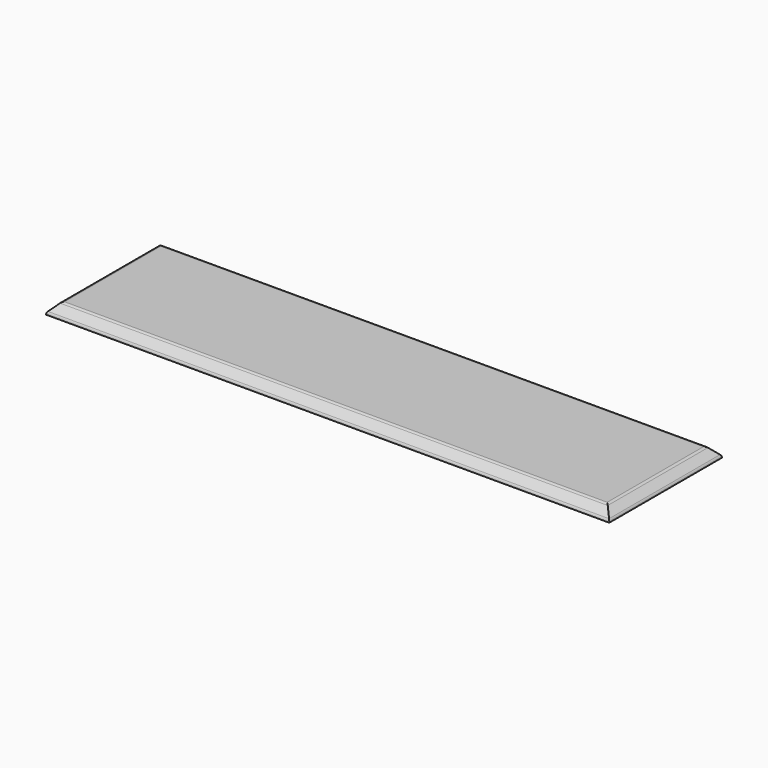
from build123d import *

# Parameters (mm, degrees)
F0_W     = 80
F0_H     = 20
F1_DEPTH = 1.5
F2_SIZE  = 1.25
F3_R     = 0.5


with BuildPart() as f1:
    # F0 (on Top) → F1 (new body)
    with BuildSketch(Plane.XY):
        with Locations((40, 10)):
            Rectangle(F0_W, F0_H)
    extrude(amount=F1_DEPTH)

    # F2
    f2_edges = [f1.edges().sort_by_distance(p)[0] for p in [
        (0, 10, 1.5),
        (40, 0, 1.5),
        (80, 10, 1.5),
        (40, 20, 1.5),
    ]]
    chamfer(f2_edges, length=F2_SIZE)

    # F3
    f3_edges = [f1.edges().sort_by_distance(p)[0] for p in [
        (1.25, 10, 1.5),
        (40, 18.75, 1.5),
        (40, 1.25, 1.5),
        (78.75, 10, 1.5),
        (80, 10, 0.25),
        (40, 0, 0.25),
        (40, 20, 0.25),
        (0, 10, 0.25),
    ]]
    fillet(f3_edges, radius=F3_R)


solid = f1.part
